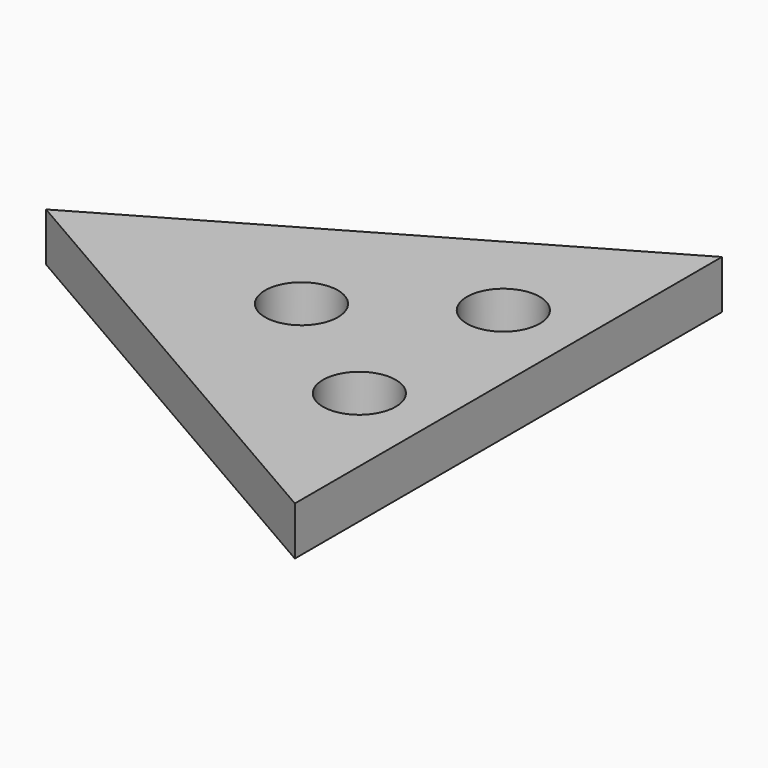
from build123d import *

# Parameters (mm, degrees)
F0_R     = 1.5
F1_DEPTH = 2


with BuildPart() as f1:
    # F0 (on Top) → F1 (new body)
    with BuildSketch(Plane.XY):
        Polygon((9.526279, 11), (-9.526279, 0), (9.526279, -11), (9.526279, -10), (9.526279, 10), align=None)
        with Locations((6.350847, -3.708273)):
            Circle(F0_R, mode=Mode.SUBTRACT)
        with Locations((1, 0)):
            Circle(F0_R, mode=Mode.SUBTRACT)
        with Locations((6.350847, 3.708273)):
            Circle(F0_R, mode=Mode.SUBTRACT)
    extrude(amount=F1_DEPTH)


solid = f1.part
